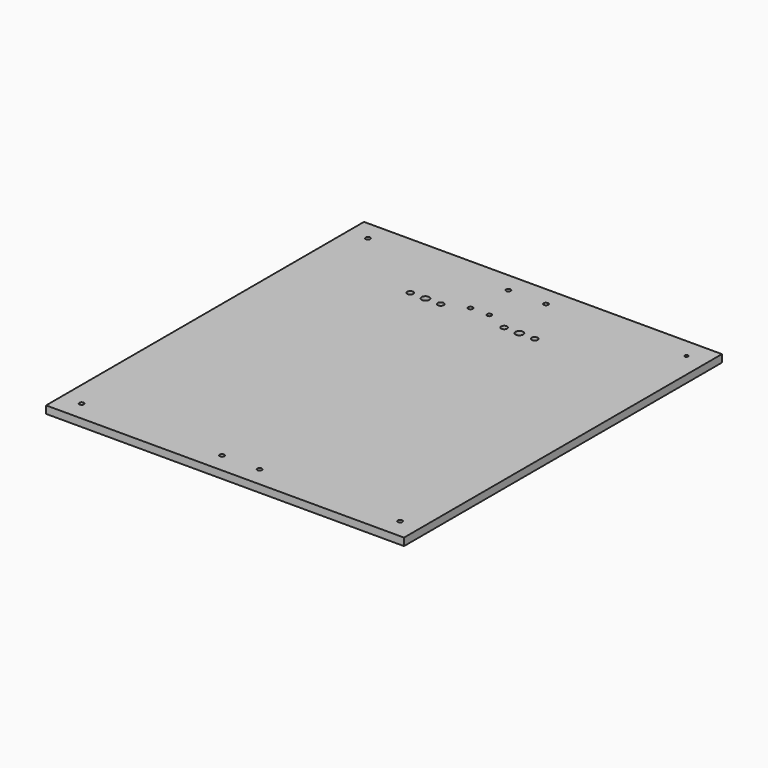
from build123d import *

# Parameters (mm, degrees)
SKETCH_W   = 381
SKETCH_H   = 423
SKETCH_R   = 2.4
SKETCH_R_2 = 1.8
SKETCH_R_3 = 3.2
SKETCH_R_4 = 4.05
PAD_DEPTH  = 8


with BuildPart() as part:
    # Sketch → Pad (new body)
    with BuildSketch(Plane.XY):
        with Locations((-190.5, 211.5)):
            Rectangle(SKETCH_W, SKETCH_H)
        with Locations((-360, 402)):
            Circle(SKETCH_R, mode=Mode.SUBTRACT)
        with Locations((-21, 402)):
            Circle(SKETCH_R_2, mode=Mode.SUBTRACT)
        with Locations((-360, 21)):
            Circle(SKETCH_R, mode=Mode.SUBTRACT)
        with Locations((-21, 21)):
            Circle(SKETCH_R, mode=Mode.SUBTRACT)
        with Locations((-171.25, 347.3)):
            Circle(SKETCH_R_3, mode=Mode.SUBTRACT)
        with Locations((-138.75, 347.3)):
            Circle(SKETCH_R_3, mode=Mode.SUBTRACT)
        with Locations((-271.25, 347.3)):
            Circle(SKETCH_R_3, mode=Mode.SUBTRACT)
        with Locations((-238.75, 347.3)):
            Circle(SKETCH_R_3, mode=Mode.SUBTRACT)
        with Locations((-215, 357.3)):
            Circle(SKETCH_R, mode=Mode.SUBTRACT)
        with Locations((-195, 357.3)):
            Circle(SKETCH_R, mode=Mode.SUBTRACT)
        with Locations((-210.5, 402)):
            Circle(SKETCH_R, mode=Mode.SUBTRACT)
        with Locations((-170.5, 402)):
            Circle(SKETCH_R, mode=Mode.SUBTRACT)
        with Locations((-210.5, 21)):
            Circle(SKETCH_R, mode=Mode.SUBTRACT)
        with Locations((-170.5, 21)):
            Circle(SKETCH_R, mode=Mode.SUBTRACT)
        with Locations((-255, 347.3)):
            Circle(SKETCH_R_4, mode=Mode.SUBTRACT)
        with Locations((-155, 347.3)):
            Circle(SKETCH_R_4, mode=Mode.SUBTRACT)
    extrude(amount=PAD_DEPTH)


solid = part.part
